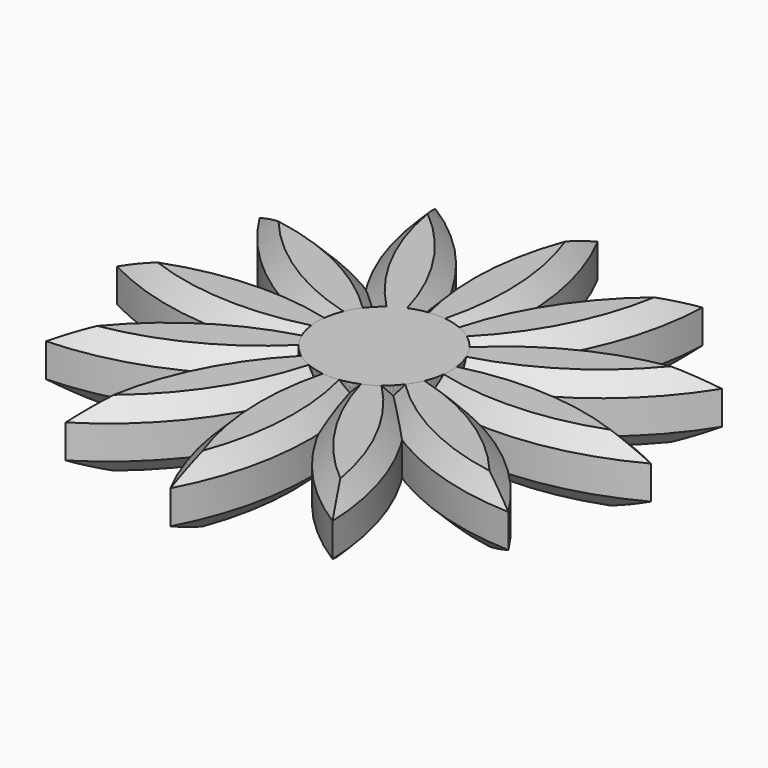
from build123d import *

# Parameters (mm, degrees)
F1_DEPTH = 6.35
F2_SIZE  = 1.58242
F3_R     = 6.35
F4_DEPTH = 6.35
F5_COUNT = 14
F5_ANGLE = 390


with BuildPart() as f1:
    # F0 (on Top) → F1 (new body)
    with BuildSketch(Plane.XY):
        with BuildLine():
            ThreePointArc((0, 25.4), (-3.175, 12.7), (0, 0))
            Line((0, 0), (0, 25.4))
        make_face()
        with BuildLine():
            Line((0, 25.4), (0, 0))
            ThreePointArc((0, 0), (3.175, 12.7), (0, 25.4))
        make_face()
    extrude(amount=F1_DEPTH)

    # F2
    f2_edges = [f1.edges().sort_by_distance(p)[0] for p in [
        (3.175, 12.7, 6.35),
        (-3.175, 12.7, 6.35),
        (3.175, 12.7, 0),
        (-3.175, 12.7, 0),
    ]]
    chamfer(f2_edges, length=F2_SIZE)

    # F3 (on Top) → F4 (join)
    with BuildSketch(Plane.XY):
        Circle(F3_R)
    extrude(amount=F4_DEPTH)


with BuildPart() as f5_1:
    # F5: instance of F1
    add(f1.part.rotate(Axis((0, 0, 0), (0, 0, 1)), 1 * F5_ANGLE / (F5_COUNT - 1)))


with BuildPart() as f5_2:
    # F5: instance of F1
    add(f1.part.rotate(Axis((0, 0, 0), (0, 0, 1)), 2 * F5_ANGLE / (F5_COUNT - 1)))


with BuildPart() as f5_3:
    # F5: instance of F1
    add(f1.part.rotate(Axis((0, 0, 0), (0, 0, 1)), 3 * F5_ANGLE / (F5_COUNT - 1)))


with BuildPart() as f5_4:
    # F5: instance of F1
    add(f1.part.rotate(Axis((0, 0, 0), (0, 0, 1)), 4 * F5_ANGLE / (F5_COUNT - 1)))


with BuildPart() as f5_5:
    # F5: instance of F1
    add(f1.part.rotate(Axis((0, 0, 0), (0, 0, 1)), 5 * F5_ANGLE / (F5_COUNT - 1)))


with BuildPart() as f5_6:
    # F5: instance of F1
    add(f1.part.rotate(Axis((0, 0, 0), (0, 0, 1)), 6 * F5_ANGLE / (F5_COUNT - 1)))


with BuildPart() as f5_7:
    # F5: instance of F1
    add(f1.part.rotate(Axis((0, 0, 0), (0, 0, 1)), 7 * F5_ANGLE / (F5_COUNT - 1)))


with BuildPart() as f5_8:
    # F5: instance of F1
    add(f1.part.rotate(Axis((0, 0, 0), (0, 0, 1)), 8 * F5_ANGLE / (F5_COUNT - 1)))


with BuildPart() as f5_9:
    # F5: instance of F1
    add(f1.part.rotate(Axis((0, 0, 0), (0, 0, 1)), 9 * F5_ANGLE / (F5_COUNT - 1)))


with BuildPart() as f5_10:
    # F5: instance of F1
    add(f1.part.rotate(Axis((0, 0, 0), (0, 0, 1)), 10 * F5_ANGLE / (F5_COUNT - 1)))


with BuildPart() as f5_11:
    # F5: instance of F1
    add(f1.part.rotate(Axis((0, 0, 0), (0, 0, 1)), 11 * F5_ANGLE / (F5_COUNT - 1)))


with BuildPart() as f5_12:
    # F5: instance of F1
    add(f1.part.rotate(Axis((0, 0, 0), (0, 0, 1)), 12 * F5_ANGLE / (F5_COUNT - 1)))


with BuildPart() as f5_13:
    # F5: instance of F1
    add(f1.part.rotate(Axis((0, 0, 0), (0, 0, 1)), 13 * F5_ANGLE / (F5_COUNT - 1)))


solid = Compound([f1.part, f5_1.part, f5_2.part, f5_3.part, f5_4.part, f5_5.part, f5_6.part, f5_7.part, f5_8.part, f5_9.part, f5_10.part, f5_11.part, f5_12.part, f5_13.part])
